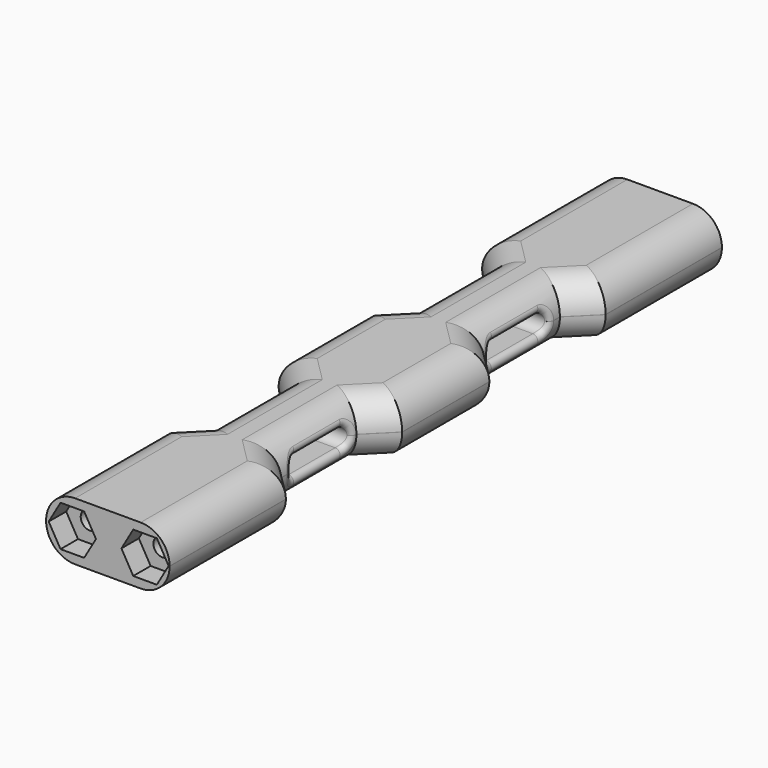
from build123d import *

# Parameters (mm, degrees)
PAD014_DEPTH         = 8
FILLET032_R          = 3.99
POCKET021_DEPTH      = 0.001
POCKET021_DEPTH_BACK = -124.885626
FILLET033_R          = 0.7
POCKET022_DEPTH      = 3
POCKET023_DEPTH      = 5
SKETCH057_R          = 1.25
POCKET024_DEPTH      = 5
SKETCH058_R          = 1.25
POCKET025_DEPTH      = 5


with BuildPart() as part:
    # Sketch053 → Pad014 (new body)
    with BuildSketch(Plane.XY):
        Polygon((107.884626, 47.5), (107.884626, 27.5), (111.384626, 24), (111.384626, 11), (107.884626, 7.5), (107.884626, -7.5), (111.384626, -11), (111.384626, -24), (107.884626, -27.5), (107.884626, -47.5), (124.884626, -47.5), (124.884626, -27.5), (121.384626, -24), (121.384626, -11), (124.884626, -7.5), (124.884626, 7.5), (121.384626, 11), (121.384626, 24), (124.884626, 27.5), (124.884626, 47.5), align=None)
    extrude(amount=PAD014_DEPTH)

    # Fillet032
    fillet032_edges = [part.edges().sort_by_distance(p)[0] for p in [
        (124.884626, 0, 8),
        (123.134626, -9.25, 8),
        (121.384626, -17.5, 8),
        (123.134626, -25.75, 8),
        (124.884626, -37.5, 8),
        (107.884626, -37.5, 8),
        (109.634626, -25.75, 8),
        (111.384626, -17.5, 8),
        (109.634626, -9.25, 8),
        (107.884626, 0, 8),
        (109.634626, 9.25, 8),
        (111.384626, 17.5, 8),
        (109.634626, 25.75, 8),
        (107.884626, 37.5, 8),
        (124.884626, 37.5, 8),
        (121.384626, 17.5, 8),
        (123.134626, 25.75, 8),
        (121.384626, 17.5, 0),
        (123.134626, 25.75, 0),
        (124.884626, 37.5, 0),
        (107.884626, 37.5, 0),
        (123.134626, 9.25, 8),
        (123.134626, 9.25, 0),
        (124.884626, 0, 0),
        (123.134626, -9.25, 0),
        (121.384626, -17.5, 0),
        (123.134626, -25.75, 0),
        (124.884626, -37.5, 0),
        (107.884626, -37.5, 0),
        (109.634626, -25.75, 0),
        (111.384626, -17.5, 0),
        (109.634626, -9.25, 0),
        (107.884626, 0, 0),
        (109.634626, 9.25, 0),
        (111.384626, 17.5, 0),
        (109.634626, 25.75, 0),
    ]]
    fillet(fillet032_edges, radius=FILLET032_R)

    # Sketch054 → Pocket021 (cut, two sides)
    with BuildSketch(Plane.YZ) as pocket021_sk:
        with BuildLine():
            ThreePointArc((-21, 5.25), (-22.25, 4), (-21, 2.75))
            Line((-21, 2.75), (-13, 2.75))
            ThreePointArc((-13, 2.75), (-11.75, 4), (-13, 5.25))
            Line((-13, 5.25), (-21, 5.25))
        make_face()
        with BuildLine():
            ThreePointArc((13, 5.25), (11.75, 4), (13, 2.75))
            Line((13, 2.75), (21, 2.75))
            ThreePointArc((21, 2.75), (22.25, 4), (21, 5.25))
            Line((21, 5.25), (13, 5.25))
        make_face()
    extrude(amount=-POCKET021_DEPTH, mode=Mode.SUBTRACT)
    extrude(pocket021_sk.sketch, amount=-POCKET021_DEPTH_BACK, mode=Mode.SUBTRACT)

    # Fillet033
    fillet033_edges = [part.edges().sort_by_distance(p)[0] for p in [
        (121.187053, -17, 5.25),
        (121.28694, -12.119742, 4.887494),
        (111.482313, -12.119742, 4.887494),
        (111.5822, -17, 5.25),
        (111.482313, -21.880258, 4.887494),
        (121.28694, -21.880258, 4.887494),
        (121.187053, 17, 5.25),
        (111.5822, 17, 5.25),
        (111.482313, 21.880258, 4.887494),
        (121.28694, 21.880258, 4.887494),
        (121.28694, 12.119742, 4.887494),
        (111.482313, 12.119742, 4.887494),
        (121.28694, -21.880258, 3.112506),
        (121.187053, -17, 2.75),
        (121.28694, -12.119742, 3.112506),
        (121.28694, 12.119742, 3.112506),
        (121.187053, 17, 2.75),
        (121.28694, 21.880258, 3.112506),
        (111.5822, -17, 2.75),
        (111.482313, -12.119742, 3.112506),
        (111.482313, -21.880258, 3.112506),
        (111.5822, 17, 2.75),
        (111.482313, 12.119742, 3.112506),
        (111.482313, 21.880258, 3.112506),
    ]]
    fillet(fillet033_edges, radius=FILLET033_R)

    # Sketch055 → Pocket022 (cut)
    with BuildSketch(Plane(origin=(116.5, -47.5, 0), x_dir=(1, 0, 0), z_dir=(0, -1, 0))):
        Polygon((-3.375, 6.814583), (-6.625, 6.814583), (-8.25, 4), (-6.625, 1.185417), (-3.375, 1.185417), (-1.75, 4), align=None)
        Polygon((3.375, 6.814583), (1.75, 4), (3.375, 1.185417), (6.625, 1.185417), (8.25, 4), (6.625, 6.814583), align=None)
    extrude(amount=-POCKET022_DEPTH, mode=Mode.SUBTRACT)

    # Sketch056 → Pocket023 (cut)
    with BuildSketch(Plane(origin=(116.5, 47.5, 0), x_dir=(1, 0, 0), z_dir=(0, -1, 0))):
        Polygon((-3.375, 6.814583), (-6.625, 6.814583), (-8.25, 4), (-6.625, 1.185417), (-3.375, 1.185417), (-1.75, 4), align=None)
        Polygon((3.375, 6.814583), (1.75, 4), (3.375, 1.185417), (6.625, 1.185417), (8.25, 4), (6.625, 6.814583), align=None)
    extrude(amount=POCKET023_DEPTH, mode=Mode.SUBTRACT)

    # Sketch057 → Pocket024 (cut)
    with BuildSketch(Plane(origin=(116.5, 42.5, 0), x_dir=(1, 0, 0), z_dir=(0, -1, 0))):
        with Locations((-5, 4)):
            Circle(SKETCH057_R)
        with Locations((5, 4)):
            Circle(SKETCH057_R)
    extrude(amount=POCKET024_DEPTH, mode=Mode.SUBTRACT)

    # Sketch058 (on Pocket) → Pocket025 (cut)
    with BuildSketch(Plane(origin=(116.5, -44.5, 0), x_dir=(1, 0, 0), z_dir=(0, -1, 0))):
        with Locations((-5, 4)):
            Circle(SKETCH058_R)
        with Locations((5, 4)):
            Circle(SKETCH058_R)
    extrude(amount=-POCKET025_DEPTH, mode=Mode.SUBTRACT)


solid = part.part
